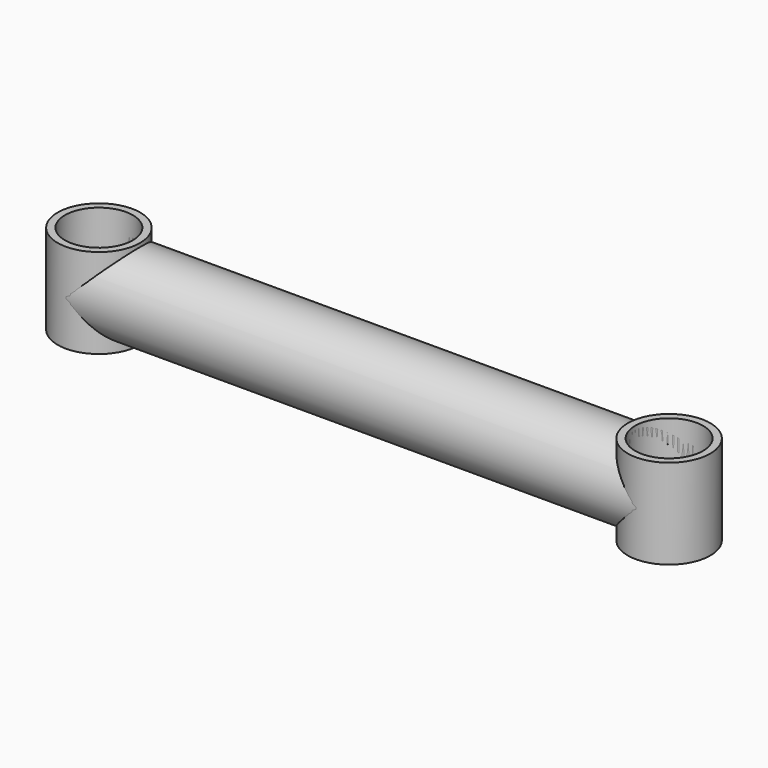
from build123d import *

# Parameters (mm, degrees)
F0_R          = 17
F0_R_2        = 14
F1_DEPTH      = 18.5
F1_DEPTH_BACK = 18.5
F3_R          = 17
F3_R_2        = 14
F4_DEPTH      = 117.5
F4_DEPTH_BACK = 117.5
F5_R          = 14
F6_DEPTH      = 60


with BuildPart() as f1:
    # F0 (on Top) → F1 (new body, two sides)
    with BuildSketch(Plane.XY) as f1_sk:
        with Locations((-117.5, 0)):
            Circle(F0_R)
        with Locations((-117.5, 0)):
            Circle(F0_R_2, mode=Mode.SUBTRACT)
    extrude(amount=F1_DEPTH)
    extrude(f1_sk.sketch, amount=-F1_DEPTH_BACK)


with BuildPart() as f1b:
    # F0 (on Top) → F1, piece 2 (new body, two sides)
    with BuildSketch(Plane.XY) as f1_2_sk:
        with BuildLine():
            ThreePointArc((134.5, 0), (117.5, 17), (100.5, 0))
            ThreePointArc((100.5, 0), (117.5, -17), (134.5, 0))
        make_face()
        with BuildLine():
            ThreePointArc((131.5, 0), (117.5, -14), (103.5, 0))
            ThreePointArc((103.5, 0), (117.5, 14), (131.5, 0))
        make_face(mode=Mode.SUBTRACT)
    extrude(amount=F1_DEPTH)
    extrude(f1_2_sk.sketch, amount=-F1_DEPTH_BACK)


with BuildPart() as f4:
    # F3 (on line) → F4 (new body, two sides)
    with BuildSketch(Plane.YZ) as f4_sk:
        Circle(F3_R)
        Circle(F3_R_2, mode=Mode.SUBTRACT)
    extrude(amount=F4_DEPTH)
    extrude(f4_sk.sketch, amount=-F4_DEPTH_BACK)

    # F5 (on face) → F6 (cut)
    with BuildSketch(Plane.XY.offset(18.5)):
        with Locations((-117.5, 0)):
            Circle(F5_R)
        with Locations((117.5, 0)):
            Circle(F5_R)
    extrude(amount=-F6_DEPTH, mode=Mode.SUBTRACT)


solid = Compound([f1.part, f1b.part, f4.part])
